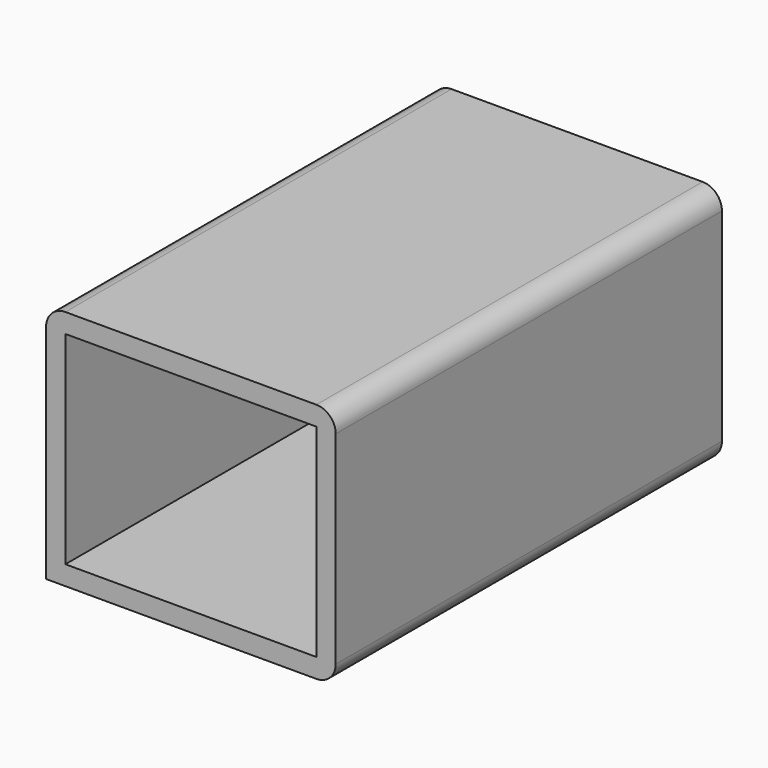
from build123d import *

# Parameters (mm, degrees)
F0_W     = 76.2
F0_H     = 63.5
F1_DEPTH = 127
F2_T     = -5.08
F3_R     = 5.08


with BuildPart() as f1:
    # F0 (on Front) → F1 (new body)
    with BuildSketch(Plane.XZ):
        with Locations((38.1, 28.927778)):
            Rectangle(F0_W, F0_H)
    extrude(amount=F1_DEPTH)

    # F2
    f2_openings = [f1.faces().sort_by_distance(p)[0] for p in [
        (38.1, -127, 28.927778),
    ]]
    offset(amount=F2_T, openings=f2_openings)

    # F3
    f3_edges = [f1.edges().sort_by_distance(p)[0] for p in [
        (76.2, -63.5, 60.677778),
        (0, -63.5, 60.677778),
        (76.2, -63.5, -2.822222),
    ]]
    fillet(f3_edges, radius=F3_R)


solid = f1.part
